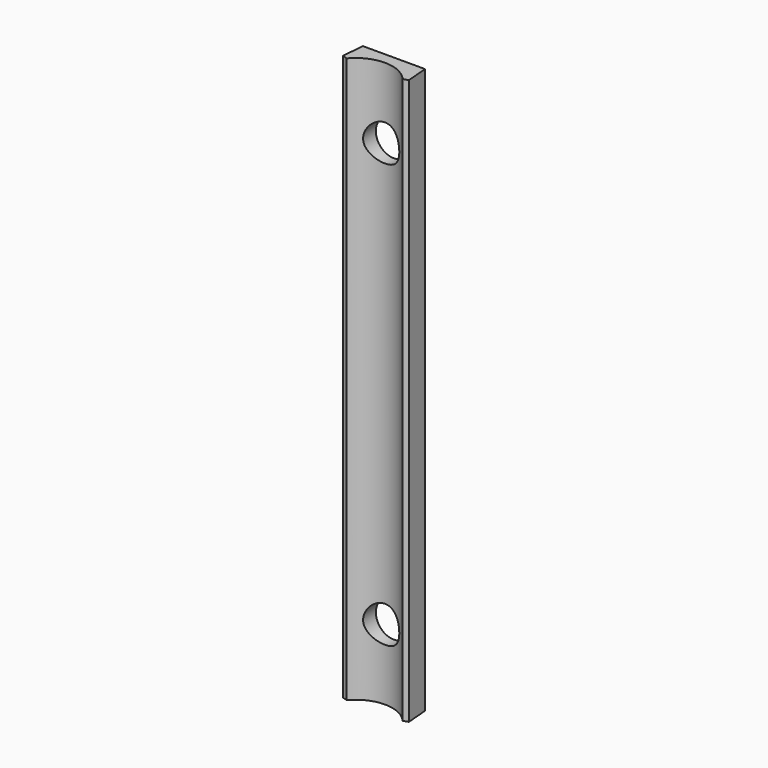
from build123d import *

# Parameters (mm, degrees)
CYLINDER001_R          = 3.2
CYLINDER001_DEPTH      = 10
CYLINDER001_ROLL_ANGLE = 90
CYLINDER_R             = 3.2
CYLINDER_DEPTH         = 10
CYLINDER_ROLL_ANGLE    = 90
PAD_DEPTH              = 50
CHAMFER_SIZE           = 2


with BuildPart() as cylinder001:
    # Cylinder001 → Cylinder001 (new body)
    with BuildSketch(Plane.XY):
        Circle(CYLINDER001_R)
    extrude(amount=CYLINDER001_DEPTH)


with BuildPart() as cylinder001_1:
    # Cylinder001 roll: moved
    add(cylinder001.part.rotate(Axis((0, 0, 0), (1, 0, 0)), CYLINDER001_ROLL_ANGLE))


with BuildPart() as cylinder001_2:
    # Cylinder001 placement: moved
    add(cylinder001_1.part.moved(Location((0, 2, -37.5))))


with BuildPart() as cylinder:
    # Cylinder → Cylinder (new body)
    with BuildSketch(Plane.XY):
        Circle(CYLINDER_R)
    extrude(amount=CYLINDER_DEPTH)


with BuildPart() as cylinder_1:
    # Cylinder roll: moved
    add(cylinder.part.rotate(Axis((0, 0, 0), (1, 0, 0)), CYLINDER_ROLL_ANGLE))


with BuildPart() as cylinder_2:
    # Cylinder placement: moved
    add(cylinder_1.part.moved(Location((0, 2, 37.5))))


with BuildPart() as chamfer_body:
    # Sketch001 → Pad (new body, symmetric)
    with BuildSketch(Plane.XY):
        with BuildLine():
            ThreePointArc((6, -5.97913), (0, -1.97913), (-6, -5.97913))
            Line((-5.5, 0), (-6, -5.97913))
            Line((-5.5, 0), (5.5, 0))
            Line((5.5, 0), (6, -5.97913))
        make_face()
    extrude(amount=PAD_DEPTH, both=True)

    # Cut: cut Cylinder
    add(cylinder_2.part, mode=Mode.SUBTRACT)

    # Cut002: cut Cylinder001
    add(cylinder001_2.part, mode=Mode.SUBTRACT)

    # Chamfer
    chamfer_edges = [chamfer_body.edges().sort_by_distance(p)[0] for p in [
        (6, -5.97913, 0),
        (-6, -5.97913, 0),
    ]]
    chamfer(chamfer_edges, length=CHAMFER_SIZE)


solid = chamfer_body.part
